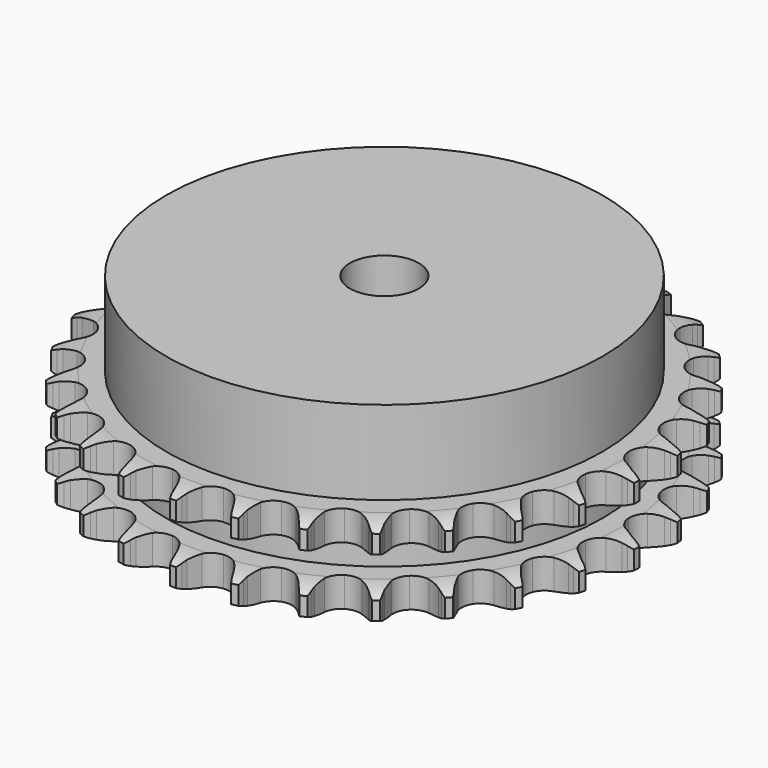
from build123d import *

# Parameters (mm, degrees)
PAD_DEPTH         = 15.4
SKETCH001_R       = 38
PAD001_DEPTH      = 30
SKETCH002_R       = 6
POCKET_DEPTH      = 0.001
POCKET_DEPTH_BACK = 30.001


with BuildPart() as part:
    # Sprocket → Pad (new body)
    with BuildSketch(Plane.XY):
        with BuildLine():
            ThreePointArc((-5.070808, 46.62531), (-4.460119, 45.833793), (-4.013256, 44.939504))
            Line((-4.013256, 44.939504), (-3.703711, 44.133111))
            ThreePointArc((-3.703711, 44.133111), (-3.211382, 43.078137), (-2.576433, 42.102331))
            ThreePointArc((-2.576433, 42.102331), (-1.439022, 41.158092), (0, 40.819705))
            ThreePointArc((0, 40.819705), (1.439022, 41.158092), (2.576433, 42.102331))
            ThreePointArc((2.576433, 42.102331), (3.211382, 43.078137), (3.703711, 44.133111))
            Line((3.703711, 44.133111), (4.013256, 44.939504))
            ThreePointArc((4.013256, 44.939504), (4.460119, 45.833793), (5.070808, 46.62531))
            ThreePointArc((5.070808, 46.62531), (5.497067, 45.721018), (5.741236, 44.751574))
            Line((5.741236, 44.751574), (5.870194, 43.897492))
            ThreePointArc((5.870194, 43.897492), (6.124224, 42.761346), (6.534559, 41.671859))
            ThreePointArc((6.534559, 41.671859), (7.442395, 40.505186), (8.77503, 39.865363))
            ThreePointArc((8.77503, 39.865363), (10.253152, 39.886492), (11.566954, 40.564145))
            Line((11.566954, 40.564145), (13.104434, 42.305115))
            ThreePointArc((13.104434, 42.305115), (13.332889, 42.671798), (13.580093, 43.026112))
            ThreePointArc((13.580093, 43.026112), (14.208754, 43.803431), (14.975319, 44.445163))
            ThreePointArc((14.975319, 44.445163), (15.197216, 43.470379), (15.227275, 42.471111))
            Line((15.227275, 42.471111), (15.169615, 41.609274))
            ThreePointArc((15.169615, 41.609274), (15.173469, 40.445083), (15.340003, 39.292857))
            ThreePointArc((15.340003, 39.292857), (15.975813, 37.958303), (17.139749, 37.046961))
            ThreePointArc((17.139749, 37.046961), (18.587856, 36.749843), (20.016618, 37.129225))
            Line((20.016618, 37.129225), (21.892409, 38.498979))
            ThreePointArc((21.892409, 38.498979), (22.194348, 38.807978), (22.51194, 39.100866))
            ThreePointArc((22.51194, 39.100866), (23.293004, 39.724869), (24.1796, 40.186808))
            ThreePointArc((24.1796, 40.186808), (24.18676, 39.187114), (24.001303, 38.204746))
            Line((24.001303, 38.204746), (23.759722, 37.375454))
            ThreePointArc((23.759722, 37.375454), (23.513219, 36.237652), (23.428165, 35.076565))
            ThreePointArc((23.428165, 35.076565), (23.762221, 33.636531), (24.703033, 32.496284))
            ThreePointArc((24.703033, 32.496284), (26.053412, 31.894813), (27.530326, 31.958183))
            Line((27.530326, 31.958183), (29.656719, 32.892673))
            ThreePointArc((29.656719, 32.892673), (30.018025, 33.129541), (30.391154, 33.347308))
            ThreePointArc((30.391154, 33.347308), (31.288099, 33.788816), (32.253271, 34.049364))
            ThreePointArc((32.253271, 34.049364), (32.045359, 33.071502), (31.653057, 32.15197))
            Line((31.653057, 32.15197), (31.238851, 31.393998))
            ThreePointArc((31.238851, 31.393998), (30.753517, 30.335789), (30.420852, 29.220131))
            ThreePointArc((30.420852, 29.220131), (30.437533, 27.741953), (31.11123, 26.426117))
            ThreePointArc((31.11123, 26.426117), (32.300739, 25.548416), (33.756747, 25.292812))
            Line((33.756747, 25.292812), (36.034314, 25.748343))
            ThreePointArc((36.034314, 25.748343), (36.438092, 25.902002), (36.849311, 26.034467))
            ThreePointArc((36.849311, 26.034467), (37.820198, 26.272836), (38.818814, 26.319809))
            ThreePointArc((38.818814, 26.319809), (38.405551, 25.409504), (37.82475, 24.595803))
            Line((37.82475, 24.595803), (37.257285, 23.944595))
            ThreePointArc((37.257285, 23.944595), (36.555815, 23.015458), (35.991094, 21.997397))
            ThreePointArc((35.991094, 21.997397), (35.68962, 20.550191), (36.064701, 19.120294))
            ThreePointArc((36.064701, 19.120294), (37.03772, 18.007404), (38.40474, 17.444778))
            Line((38.40474, 17.444778), (40.726984, 17.400048))
            ThreePointArc((40.726984, 17.400048), (41.154355, 17.463315), (41.584436, 17.504283))
            ThreePointArc((41.584436, 17.504283), (42.583866, 17.528367), (43.569232, 17.359569))
            ThreePointArc((43.569232, 17.359569), (42.969943, 16.559386), (42.227799, 15.889564))
            Line((42.227799, 15.889564), (41.533611, 15.375568))
            ThreePointArc((41.533611, 15.375568), (40.648803, 14.61895), (39.878432, 13.746089))
            ThreePointArc((39.878432, 13.746089), (39.2729, 12.397526), (39.331826, 10.920428))
            ThreePointArc((39.331826, 10.920428), (40.042859, 9.624386), (41.25697, 8.781045))
            Line((41.25697, 8.781045), (43.515306, 8.238147))
            ThreePointArc((43.515306, 8.238147), (43.946285, 8.208063), (44.375118, 8.155618))
            ThreePointArc((44.375118, 8.155618), (45.356359, 7.964291), (46.282402, 7.587615))
            ThreePointArc((46.282402, 7.587615), (45.525108, 6.934969), (44.656323, 6.440346))
            Line((44.656323, 6.440346), (43.867871, 6.087598))
            ThreePointArc((43.867871, 6.087598), (42.841099, 5.538876), (41.901099, 4.852029))
            ThreePointArc((41.901099, 4.852029), (41.019823, 3.665166), (40.759839, 2.209934))
            ThreePointArc((40.759839, 2.209934), (41.175638, 0.791342), (42.18007, -0.29328))
            Line((42.18007, -0.29328), (44.268901, -1.308961))
            ThreePointArc((44.268901, -1.308961), (44.683336, -1.430989), (45.090869, -1.574395))
            ThreePointArc((45.090869, -1.574395), (46.00804, -1.972186), (46.831458, -2.539128))
            ThreePointArc((46.831458, -2.539128), (45.95157, -3.013719), (44.996767, -3.310015))
            Line((44.996767, -3.310015), (44.150918, -3.485023))
            ThreePointArc((44.150918, -3.485023), (43.030192, -3.80019), (41.964518, -4.268907))
            ThreePointArc((41.964518, -4.268907), (40.848705, -5.238573), (40.281967, -6.603893))
            ThreePointArc((40.281967, -6.603893), (40.383089, -8.078704), (41.130877, -9.353892))
            Line((41.130877, -9.353892), (42.95253, -10.794863))
            ThreePointArc((42.95253, -10.794863), (43.331044, -11.00313), (43.698221, -11.23079))
            ThreePointArc((43.698221, -11.23079), (44.508436, -11.816446), (45.190727, -12.547144))
            ThreePointArc((45.190727, -12.547144), (44.229387, -12.821489), (43.233212, -12.905603))
            Line((43.233212, -12.905603), (42.369517, -12.894687))
            ThreePointArc((42.369517, -12.894687), (41.207242, -12.961563), (40.065722, -13.190233))
            ThreePointArc((40.065722, -13.190233), (38.767547, -13.897362), (37.920555, -15.10893))
            ThreePointArc((37.920555, -15.10893), (37.702273, -16.570998), (38.158449, -17.977126))
            Line((38.158449, -17.977126), (39.627748, -19.776009))
            ThreePointArc((39.627748, -19.776009), (39.952641, -20.060777), (40.262293, -20.362046))
            ThreePointArc((40.262293, -20.362046), (40.927667, -21.108182), (41.436928, -21.968469))
            ThreePointArc((41.436928, -21.968469), (40.439087, -22.029741), (39.44812, -21.89774))
            Line((39.44812, -21.89774), (38.606965, -21.70141))
            ThreePointArc((38.606965, -21.70141), (37.457486, -21.516868), (36.293497, -21.494798))
            ThreePointArc((36.293497, -21.494798), (34.873661, -21.906326), (33.78602, -22.90749))
            ThreePointArc((33.78602, -22.90749), (33.25854, -24.288452), (33.401775, -25.759769))
            Line((33.401775, -25.759769), (34.450016, -27.832452))
            ThreePointArc((34.450016, -27.832452), (34.706096, -28.180404), (34.943745, -28.541196))
            ThreePointArc((34.943745, -28.541196), (35.433166, -29.412923), (35.745584, -30.362573))
            ThreePointArc((35.745584, -30.362573), (34.757901, -30.207906), (33.818478, -29.865963))
            Line((33.818478, -29.865963), (33.039194, -29.493399))
            ThreePointArc((33.039194, -29.493399), (31.95626, -29.066068), (30.824229, -28.794291))
            ThreePointArc((30.824229, -28.794291), (29.349121, -28.890975), (28.071689, -29.634922))
            ThreePointArc((28.071689, -29.634922), (27.259674, -30.870204), (27.083272, -32.337914))
            Line((27.083272, -32.337914), (27.661439, -34.587479))
            ThreePointArc((27.661439, -34.587479), (27.836733, -34.982346), (27.991266, -35.385791))
            ThreePointArc((27.991266, -35.385791), (28.281849, -36.342349), (28.382817, -37.336957))
            ThreePointArc((28.382817, -37.336957), (27.451474, -36.973583), (26.607522, -36.437686))
            Line((26.607522, -36.437686), (25.926547, -35.90631))
            ThreePointArc((25.926547, -35.90631), (24.960796, -35.256171), (23.913655, -34.747395))
            ThreePointArc((23.913655, -34.747395), (22.45225, -34.524713), (21.044756, -34.976657))
            ThreePointArc((21.044756, -34.976657), (19.986177, -36.0085), (19.498384, -37.403975))
            Line((19.498384, -37.403975), (19.579444, -39.725235))
            ThreePointArc((19.579444, -39.725235), (19.665756, -40.148553), (19.729947, -40.575786))
            ThreePointArc((19.729947, -40.575786), (19.808104, -41.572446), (19.6929, -42.565506))
            ThreePointArc((19.6929, -42.565506), (18.861446, -42.010417), (18.152427, -41.305624))
            Line((18.152427, -41.305624), (17.601603, -40.640282))
            ThreePointArc((17.601603, -40.640282), (16.798191, -39.797734), (15.884904, -39.075749))
            ThreePointArc((15.884904, -39.075749), (14.505536, -38.544115), (13.033794, -38.682923))
            ThreePointArc((13.033794, -38.682923), (11.778148, -39.463079), (11.001774, -40.721067))
            Line((11.001774, -40.721067), (10.581936, -43.005483))
            ThreePointArc((10.581936, -43.005483), (10.575229, -43.437459), (10.546077, -43.868502))
            ThreePointArc((10.546077, -43.868502), (10.408155, -44.858662), (10.082166, -45.80374))
            ThreePointArc((10.082166, -45.80374), (9.389478, -45.08289), (8.848545, -44.242157))
            Line((8.848545, -44.242157), (8.453628, -43.473959))
            ThreePointArc((8.453628, -43.473959), (7.850123, -42.4784), (7.113393, -41.576964))
            ThreePointArc((7.113393, -41.576964), (5.880559, -40.761236), (4.413386, -40.580418))
            ThreePointArc((4.413386, -40.580418), (3.019386, -41.072407), (1.990733, -42.134087))
            Line((1.990733, -42.134087), (1.089629, -44.274842))
            ThreePointArc((1.089629, -44.274842), (0.990216, -44.695277), (0.869085, -45.109976))
            ThreePointArc((0.869085, -45.109976), (0.521531, -46.047337), (0, -46.900241))
            ThreePointArc((0, -46.900241), (-0.521531, -46.047337), (-0.869085, -45.109976))
            Line((-0.869085, -45.109976), (-1.089629, -44.274842))
            ThreePointArc((-1.089629, -44.274842), (-1.465009, -43.172823), (-1.990733, -42.134087))
            ThreePointArc((-1.990733, -42.134087), (-3.019386, -41.072407), (-4.413386, -40.580418))
            ThreePointArc((-4.413386, -40.580418), (-5.880559, -40.761236), (-7.113393, -41.576964))
            Line((-7.113393, -41.576964), (-8.453628, -43.473959))
            ThreePointArc((-8.453628, -43.473959), (-8.641098, -43.863193), (-8.848545, -44.242157))
            ThreePointArc((-8.848545, -44.242157), (-9.389478, -45.08289), (-10.082166, -45.80374))
            ThreePointArc((-10.082166, -45.80374), (-10.408155, -44.858662), (-10.546077, -43.868502))
            Line((-10.546077, -43.868502), (-10.581936, -43.005483))
            ThreePointArc((-10.581936, -43.005483), (-10.711639, -41.848532), (-11.001774, -40.721067))
            ThreePointArc((-11.001774, -40.721067), (-11.778148, -39.463079), (-13.033794, -38.682923))
            ThreePointArc((-13.033794, -38.682923), (-14.505536, -38.544115), (-15.884904, -39.075749))
            Line((-15.884904, -39.075749), (-17.601603, -40.640282))
            ThreePointArc((-17.601603, -40.640282), (-17.868364, -40.980116), (-18.152427, -41.305624))
            ThreePointArc((-18.152427, -41.305624), (-18.861446, -42.010417), (-19.6929, -42.565506))
            ThreePointArc((-19.6929, -42.565506), (-19.808104, -41.572446), (-19.729947, -40.575786))
            Line((-19.729947, -40.575786), (-19.579444, -39.725235))
            ThreePointArc((-19.579444, -39.725235), (-19.457404, -38.567451), (-19.498384, -37.403975))
            ThreePointArc((-19.498384, -37.403975), (-19.986177, -36.0085), (-21.044756, -34.976657))
            ThreePointArc((-21.044756, -34.976657), (-22.45225, -34.524713), (-23.913655, -34.747395))
            Line((-23.913655, -34.747395), (-25.926547, -35.90631))
            ThreePointArc((-25.926547, -35.90631), (-26.260125, -36.180853), (-26.607522, -36.437686))
            ThreePointArc((-26.607522, -36.437686), (-27.451474, -36.973583), (-28.382817, -37.336957))
            ThreePointArc((-28.382817, -37.336957), (-28.281849, -36.342349), (-27.991266, -35.385791))
            Line((-27.991266, -35.385791), (-27.661439, -34.587479))
            ThreePointArc((-27.661439, -34.587479), (-27.293363, -33.482999), (-27.083272, -32.337914))
            ThreePointArc((-27.083272, -32.337914), (-27.259674, -30.870204), (-28.071689, -29.634922))
            ThreePointArc((-28.071689, -29.634922), (-29.349121, -28.890975), (-30.824229, -28.794291))
            Line((-30.824229, -28.794291), (-33.039194, -29.493399))
            ThreePointArc((-33.039194, -29.493399), (-33.423991, -29.689814), (-33.818478, -29.865963))
            ThreePointArc((-33.818478, -29.865963), (-34.757901, -30.207906), (-35.745584, -30.362573))
            ThreePointArc((-35.745584, -30.362573), (-35.433166, -29.412923), (-34.943745, -28.541196))
            Line((-34.943745, -28.541196), (-34.450016, -27.832452))
            ThreePointArc((-34.450016, -27.832452), (-33.853114, -26.832919), (-33.401775, -25.759769))
            ThreePointArc((-33.401775, -25.759769), (-33.25854, -24.288452), (-33.78602, -22.90749))
            ThreePointArc((-33.78602, -22.90749), (-34.873661, -21.906326), (-36.293497, -21.494798))
            Line((-36.293497, -21.494798), (-38.606965, -21.70141))
            ThreePointArc((-38.606965, -21.70141), (-39.02499, -21.810513), (-39.44812, -21.89774))
            ThreePointArc((-39.44812, -21.89774), (-40.439087, -22.029741), (-41.436928, -21.968469))
            ThreePointArc((-41.436928, -21.968469), (-40.927667, -21.108182), (-40.262293, -20.362046))
            Line((-40.262293, -20.362046), (-39.627748, -19.776009))
            ThreePointArc((-39.627748, -19.776009), (-38.829931, -18.928161), (-38.158449, -17.977126))
            ThreePointArc((-38.158449, -17.977126), (-37.702273, -16.570998), (-37.920555, -15.10893))
            ThreePointArc((-37.920555, -15.10893), (-38.767547, -13.897362), (-40.065722, -13.190233))
            Line((-40.065722, -13.190233), (-42.369517, -12.894687))
            ThreePointArc((-42.369517, -12.894687), (-42.801223, -12.911376), (-43.233212, -12.905603))
            ThreePointArc((-43.233212, -12.905603), (-44.229387, -12.821489), (-45.190727, -12.547144))
            ThreePointArc((-45.190727, -12.547144), (-44.508436, -11.816446), (-43.698221, -11.23079))
            Line((-43.698221, -11.23079), (-42.95253, -10.794863))
            ThreePointArc((-42.95253, -10.794863), (-41.991104, -10.138344), (-41.130877, -9.353892))
            ThreePointArc((-41.130877, -9.353892), (-40.383089, -8.078704), (-40.281967, -6.603893))
            ThreePointArc((-40.281967, -6.603893), (-40.848705, -5.238573), (-41.964518, -4.268907))
            Line((-41.964518, -4.268907), (-44.150918, -3.485023))
            ThreePointArc((-44.150918, -3.485023), (-44.576118, -3.408518), (-44.996767, -3.310015))
            ThreePointArc((-44.996767, -3.310015), (-45.95157, -3.013719), (-46.831458, -2.539128))
            ThreePointArc((-46.831458, -2.539128), (-46.00804, -1.972186), (-45.090869, -1.574395))
            Line((-45.090869, -1.574395), (-44.268901, -1.308961))
            ThreePointArc((-44.268901, -1.308961), (-43.18882, -0.874469), (-42.18007, -0.29328))
            ThreePointArc((-42.18007, -0.29328), (-41.175638, 0.791342), (-40.759839, 2.209934))
            ThreePointArc((-40.759839, 2.209934), (-41.019823, 3.665166), (-41.901099, 4.852029))
            Line((-41.901099, 4.852029), (-43.867871, 6.087598))
            ThreePointArc((-43.867871, 6.087598), (-44.266684, 6.253719), (-44.656323, 6.440346))
            ThreePointArc((-44.656323, 6.440346), (-45.525108, 6.934969), (-46.282402, 7.587615))
            ThreePointArc((-46.282402, 7.587615), (-45.356359, 7.964291), (-44.375118, 8.155618))
            Line((-44.375118, 8.155618), (-43.515306, 8.238147))
            ThreePointArc((-43.515306, 8.238147), (-42.367074, 8.430295), (-41.25697, 8.781045))
            ThreePointArc((-41.25697, 8.781045), (-40.042859, 9.624386), (-39.331826, 10.920428))
            ThreePointArc((-39.331826, 10.920428), (-39.2729, 12.397526), (-39.878432, 13.746089))
            Line((-39.878432, 13.746089), (-41.533611, 15.375568))
            ThreePointArc((-41.533611, 15.375568), (-41.887388, 15.623539), (-42.227799, 15.889564))
            ThreePointArc((-42.227799, 15.889564), (-42.969943, 16.559386), (-43.569232, 17.359569))
            ThreePointArc((-43.569232, 17.359569), (-42.583866, 17.528367), (-41.584436, 17.504283))
            Line((-41.584436, 17.504283), (-40.726984, 17.400048))
            ThreePointArc((-40.726984, 17.400048), (-39.564291, 17.340868), (-38.40474, 17.444778))
            ThreePointArc((-38.40474, 17.444778), (-37.03772, 18.007404), (-36.064701, 19.120294))
            ThreePointArc((-36.064701, 19.120294), (-35.68962, 20.550191), (-35.991094, 21.997397))
            Line((-35.991094, 21.997397), (-37.257285, 23.944595))
            ThreePointArc((-37.257285, 23.944595), (-37.549485, 24.26282), (-37.82475, 24.595803))
            ThreePointArc((-37.82475, 24.595803), (-38.405551, 25.409504), (-38.818814, 26.319809))
            ThreePointArc((-38.818814, 26.319809), (-37.820198, 26.272836), (-36.849311, 26.034467))
            Line((-36.849311, 26.034467), (-36.034314, 25.748343))
            ThreePointArc((-36.034314, 25.748343), (-34.911526, 25.440602), (-33.756747, 25.292812))
            ThreePointArc((-33.756747, 25.292812), (-32.300739, 25.548416), (-31.11123, 26.426117))
            ThreePointArc((-31.11123, 26.426117), (-30.437533, 27.741953), (-30.420852, 29.220131))
            Line((-30.420852, 29.220131), (-31.238851, 31.393998))
            ThreePointArc((-31.238851, 31.393998), (-31.45581, 31.767598), (-31.653057, 32.15197))
            ThreePointArc((-31.653057, 32.15197), (-32.045359, 33.071502), (-32.253271, 34.049364))
            ThreePointArc((-32.253271, 34.049364), (-31.288099, 33.788816), (-30.391154, 33.347308))
            Line((-30.391154, 33.347308), (-29.656719, 32.892673))
            ThreePointArc((-29.656719, 32.892673), (-28.626337, 32.350761), (-27.530326, 31.958183))
            ThreePointArc((-27.530326, 31.958183), (-26.053412, 31.894813), (-24.703033, 32.496284))
            ThreePointArc((-24.703033, 32.496284), (-23.762221, 33.636531), (-23.428165, 35.076565))
            Line((-23.428165, 35.076565), (-23.759722, 37.375454))
            ThreePointArc((-23.759722, 37.375454), (-23.891296, 37.786959), (-24.001303, 38.204746))
            ThreePointArc((-24.001303, 38.204746), (-24.18676, 39.187114), (-24.1796, 40.186808))
            ThreePointArc((-24.1796, 40.186808), (-23.293004, 39.724869), (-22.51194, 39.100866))
            Line((-22.51194, 39.100866), (-21.892409, 38.498979))
            ThreePointArc((-21.892409, 38.498979), (-21.002612, 37.748234), (-20.016618, 37.129225))
            ThreePointArc((-20.016618, 37.129225), (-18.587856, 36.749843), (-17.139749, 37.046961))
            ThreePointArc((-17.139749, 37.046961), (-15.975813, 37.958303), (-15.340003, 39.292857))
            Line((-15.340003, 39.292857), (-15.169615, 41.609274))
            ThreePointArc((-15.169615, 41.609274), (-15.209652, 42.039443), (-15.227275, 42.471111))
            ThreePointArc((-15.227275, 42.471111), (-15.197216, 43.470379), (-14.975319, 44.445163))
            ThreePointArc((-14.975319, 44.445163), (-14.208754, 43.803431), (-13.580093, 43.026112))
            Line((-13.580093, 43.026112), (-13.104434, 42.305115))
            ThreePointArc((-13.104434, 42.305115), (-12.396828, 41.380642), (-11.566954, 40.564145))
            ThreePointArc((-11.566954, 40.564145), (-10.253152, 39.886492), (-8.77503, 39.865363))
            ThreePointArc((-8.77503, 39.865363), (-7.442395, 40.505186), (-6.534559, 41.671859))
            Line((-6.534559, 41.671859), (-5.870194, 43.897492))
            ThreePointArc((-5.870194, 43.897492), (-5.816821, 44.32621), (-5.741236, 44.751574))
            ThreePointArc((-5.741236, 44.751574), (-5.497067, 45.721018), (-5.070808, 46.62531))
        make_face()
    extrude(amount=PAD_DEPTH)

    # Sketch → Groove (revolve, cut)
    with BuildSketch(Plane.XZ):
        with BuildLine():
            ThreePointArc((41.641101, 0), (43.877169, 0.253206), (46, 1))
            Line((46, 1), (46, 4.2))
            ThreePointArc((46, 4.2), (43.877169, 4.946794), (41.641101, 5.2))
            Line((38, 5.2), (41.641101, 5.2))
            Line((38, 10.2), (38, 5.2))
            Line((41.641101, 10.2), (38, 10.2))
            ThreePointArc((41.641101, 10.2), (43.877169, 10.453206), (46, 11.2))
            Line((46, 11.2), (46, 14.4))
            ThreePointArc((46, 14.4), (43.877169, 15.146794), (41.641101, 15.4))
            Line((41.641101, 15.4), (51.641101, 15.4))
            Line((51.641101, 15.4), (51.641101, 0))
            Line((41.641101, 0), (51.641101, 0))
        make_face()
    revolve(axis=Axis((0, 0, 0), (0, 0, 1)), mode=Mode.SUBTRACT)

    # Sketch001 → Pad001 (join)
    with BuildSketch(Plane.XY):
        Circle(SKETCH001_R)
    extrude(amount=PAD001_DEPTH)

    # Sketch002 → Pocket (cut, two sides)
    with BuildSketch(Plane.XY) as pocket_sk:
        Circle(SKETCH002_R)
    extrude(amount=-POCKET_DEPTH, mode=Mode.SUBTRACT)
    extrude(pocket_sk.sketch, amount=POCKET_DEPTH_BACK, mode=Mode.SUBTRACT)


solid = part.part
